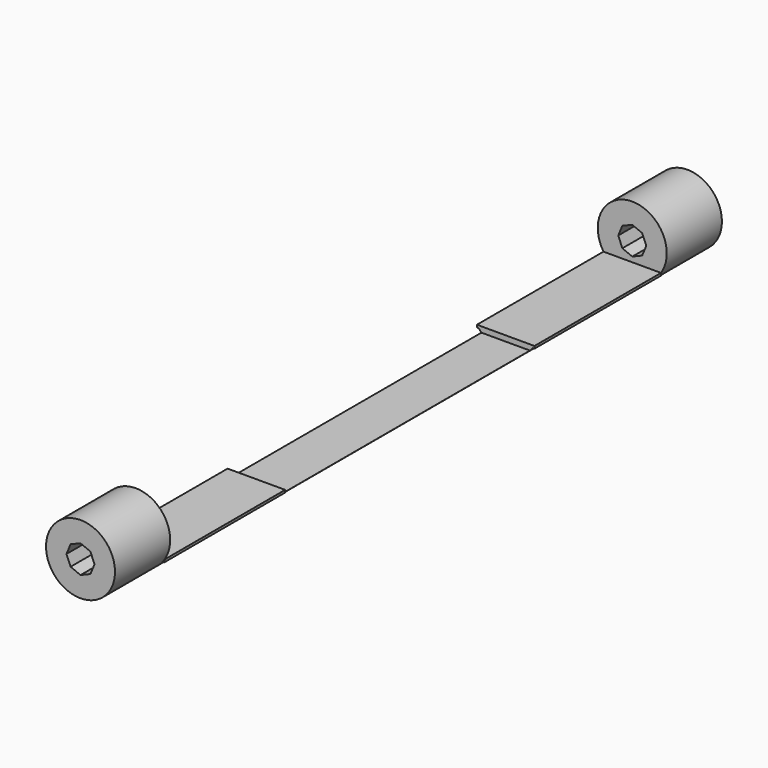
from build123d import *

# Parameters (mm, degrees)
F1_DEPTH = 114.3
F2_R     = 12.7
F3_DEPTH = 25.4
F6_DEPTH = 2.032
F7_DEPTH = 25.4


with BuildPart() as f1:
    # F0 (on Front) → F1 (new body)
    with BuildSketch(Plane.XZ):
        with BuildLine():
            Line((10.5614215136, -7), (-10.5966975988, -7))
            ThreePointArc((-10.5966975988, -7), (-10.2701474295, -7.4708815929), (-9.9226886379, -7.9265534878))
            Line((-9.9226886379, -7.9265534878), (9.9226886379, -7.9265534878))
            ThreePointArc((9.9226886379, -7.9265534878), (10.2513617434, -7.4966380736), (10.5614215136, -7.0531110592))
            Line((10.5614215136, -7.0531110592), (10.5614215136, -7))
        make_face()
        with BuildLine():
            ThreePointArc((-9.9226886379, -7.9265534878), (-10.2701474295, -7.4708815929), (-10.5966975988, -7))
            Line((-10.5966975988, -7), (-10.5966975988, -7.9265534878))
            Line((-10.5966975988, -7.9265534878), (-9.9226886379, -7.9265534878))
        make_face()
        with BuildLine():
            Line((9.9226886379, -7.9265534878), (-9.9226886379, -7.9265534878))
            ThreePointArc((-9.9226886379, -7.9265534878), (-7.5775508356, -10.1916987463), (-4.7329799249, -11.7851135349))
            Line((-4.7329799249, -11.7851135349), (-4.7329799249, -10.4623720994))
            Line((-4.7329799249, -10.4623720994), (-3.2759574242, -10.4623720994))
            Line((-3.2759574242, -10.4623720994), (-3.2759574242, -12.2702120175))
            ThreePointArc((-3.2759574242, -12.2702120175), (-0.0620753883, -12.6998482923), (3.1558530074, -12.3016499623))
            Line((3.1558530074, -12.3016499623), (3.1558530074, -10.4598701178))
            Line((3.1558530074, -10.4598701178), (4.5460122637, -10.4598701178))
            Line((4.5460122637, -10.4598701178), (4.5460122637, -11.8584894695))
            ThreePointArc((4.5460122637, -11.8584894695), (7.4967230566, -10.2512995963), (9.9226886379, -7.9265534878))
        make_face()
        with BuildLine():
            Line((10.5966975988, -7), (10.5614215136, -7))
            Line((10.5614215136, -7), (10.5614215136, -7.0531110592))
            ThreePointArc((10.5614215136, -7.0531110592), (10.5790928859, -7.026577667), (10.5966975988, -7))
        make_face()
        with BuildLine():
            ThreePointArc((10.5614215136, -7.0531110592), (10.2513617434, -7.4966380736), (9.9226886379, -7.9265534878))
            Line((9.9226886379, -7.9265534878), (10.5614215136, -7.9265534878))
            Line((10.5614215136, -7.9265534878), (10.5614215136, -7.0531110592))
        make_face()
    extrude(amount=F1_DEPTH)

    # F2 (on face) → F3 (join)
    with BuildSketch(Plane.XZ.offset(114.3)):
        Circle(F2_R)
        Polygon((-3.6490469896, 3.6490469896), (0, 5.1605317424), (3.6490469896, 3.6490469896), (5.1605317424, 0), (3.6490469896, -3.6490469896), (0, -5.1605317424), (-3.6490469896, -3.6490469896), (-5.1605317424, 0), align=None, mode=Mode.SUBTRACT)
    extrude(amount=F3_DEPTH)

    # F4: F1 across face


with BuildPart() as f1_1:
    add(f1.part)
    add(f1.part.mirror(Plane(origin=(0.0015510549, 0, -9.2088295832), x_dir=(1, 0, 0), z_dir=(0, 1, 0))))

    # F5 (on face) → F6 (cut)
    with BuildSketch(Plane.XY.offset(-7)):
        Polygon((10.5966975988, 56.0314431787), (-10.5966975988, 56.0314431787), (-10.5966975988, -58.7317496538), (10.5966975988, -58.7317496538), (10.5966975988, 0), align=None)
    extrude(amount=-F6_DEPTH, mode=Mode.SUBTRACT)

    # F2 (on face) → F7 (join)
    with BuildSketch(Plane.XZ.offset(114.3)):
        Circle(F2_R)
        Polygon((-3.6490469896, 3.6490469896), (0, 5.1605317424), (3.6490469896, 3.6490469896), (5.1605317424, 0), (3.6490469896, -3.6490469896), (0, -5.1605317424), (-3.6490469896, -3.6490469896), (-5.1605317424, 0), align=None, mode=Mode.SUBTRACT)
    extrude(amount=F7_DEPTH)


solid = f1_1.part
